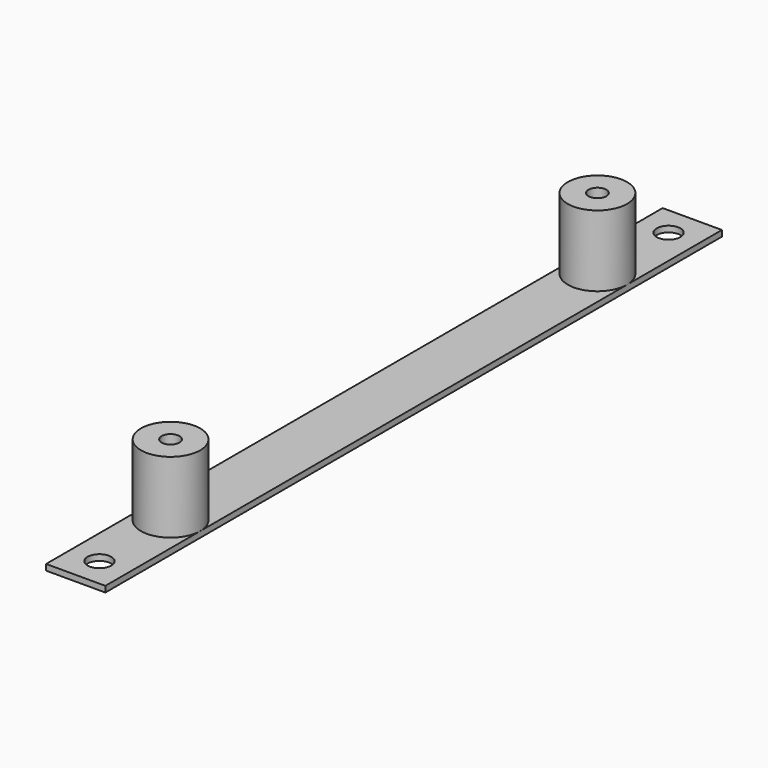
from build123d import *

# Parameters (mm, degrees)
F0_W     = 10
F0_H     = 130
F1_DEPTH = 1
F2_R     = 2
F3_DEPTH = 25
F5_DEPTH = 12
F6_R     = 1.5
F7_DEPTH = 25


with BuildPart() as f1:
    # F0 (on Top) → F1 (new body)
    with BuildSketch(Plane.XY):
        Rectangle(F0_W, F0_H)
    extrude(amount=F1_DEPTH)

    # F2 (on face) → F3 (cut)
    with BuildSketch(Plane.XY.offset(1)):
        with Locations((0, 60)):
            Circle(F2_R)
        with Locations((0, -60)):
            Circle(F2_R)
    extrude(amount=-F3_DEPTH, mode=Mode.SUBTRACT)

    # F4 (on face) → F5 (join)
    with BuildSketch(Plane.XY.offset(1)):
        with BuildLine():
            ThreePointArc((-5, 45), (0, 40), (5, 45))
            ThreePointArc((5, 45), (0, 50), (-5, 45))
        make_face()
        with BuildLine():
            ThreePointArc((-5, -45), (0, -50), (5, -45))
            ThreePointArc((5, -45), (0, -40), (-5, -45))
        make_face()
    extrude(amount=F5_DEPTH)

    # F6 (on face) → F7 (cut)
    with BuildSketch(Plane(origin=(0, 0, 0), x_dir=(1, 0, 0), z_dir=(0, 0, -1))):
        with Locations((0, -45)):
            Circle(F6_R)
        with Locations((0, 45)):
            Circle(F6_R)
    extrude(amount=-F7_DEPTH, mode=Mode.SUBTRACT)


solid = f1.part
